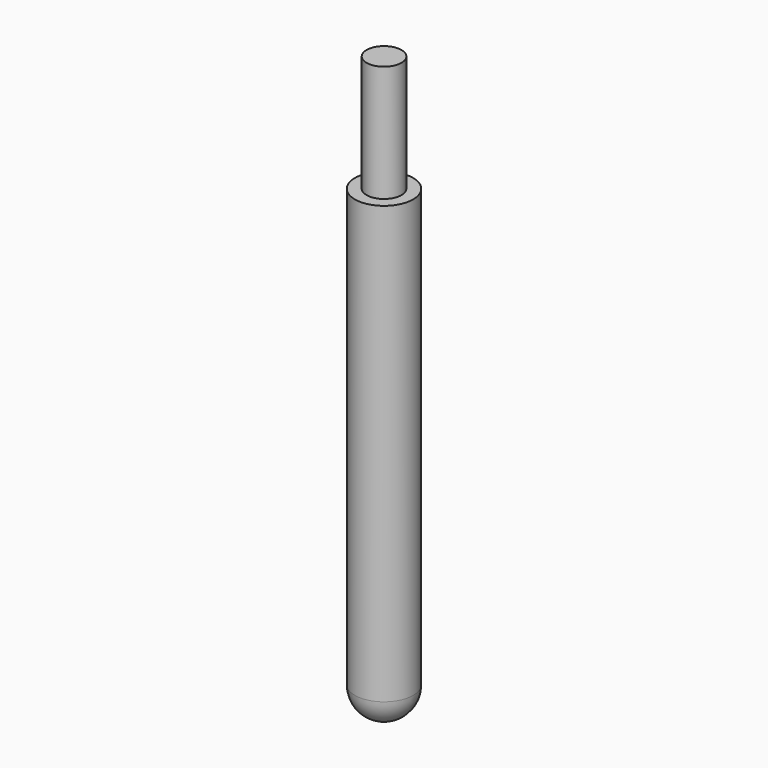
from build123d import *


with BuildPart() as part:
    # Sketch → Revolution (revolve)
    with BuildSketch(Plane.XZ):
        with BuildLine():
            Line((0, 50), (0, 0))
            ThreePointArc((0, 0), (1.767767, 0.732233), (2.5, 2.5))
            Line((2.5, 2.5), (2.5, 40))
            Line((1.5, 40), (2.5, 40))
            Line((1.5, 50), (1.5, 40))
            Line((1.5, 50), (0, 50))
        make_face()
    revolve(axis=Axis((0, 0, 0), (0, 0, 1)))


solid = part.part
